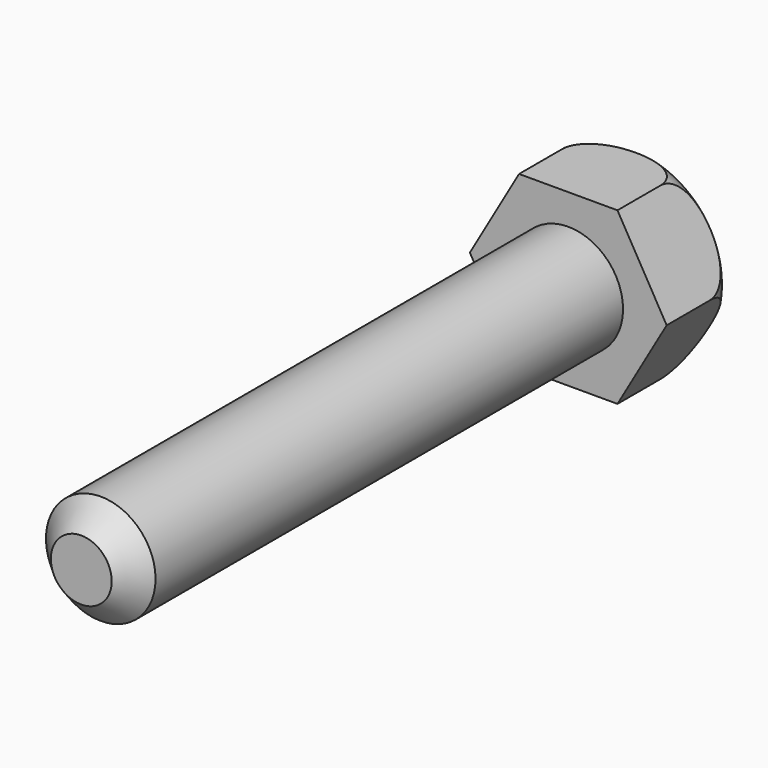
from build123d import *

# Parameters (mm, degrees)
F1_DEPTH = 4
F2_R     = 2.25
F3_DEPTH = 25
F6_SIZE  = 1


with BuildPart() as f1:
    # F0 (on Front) → F1 (new body)
    with BuildSketch(Plane.XZ):
        Polygon((2.020726, 3.5), (-2.020726, 3.5), (-4.041452, 0), (-2.020726, -3.5), (2.020726, -3.5), (4.041452, 0), align=None)
    extrude(amount=F1_DEPTH)

    # F2 (on face) → F3 (join)
    with BuildSketch(Plane.XZ.offset(4)):
        Circle(F2_R)
    extrude(amount=F3_DEPTH)

    # F4 (on Top) → F5 (revolve, cut)
    with BuildSketch(Plane.XY):
        with BuildLine():
            Line((-7.239562, -3.979997), (-4.041452, -3.979997))
            Line((-4.041452, -3.979997), (-4.041452, -1.791452))
            ThreePointArc((-4.041452, -1.791452), (-3.516748, -0.524704), (-2.25, 0))
            Line((-2.25, 0), (0, 0))
            Line((0, 0), (0, 3.398254))
            Line((0, 3.398254), (-7.627891, 4.230388))
            Line((-7.627891, 4.230388), (-7.239562, -3.979997))
        make_face()
    revolve(axis=Axis((0, 1.699127, 0), (0, 1, 0)), mode=Mode.SUBTRACT)

    # F6
    f6_edges = [f1.edges().sort_by_distance(p)[0] for p in [
        (-2.25, -29, 0),
    ]]
    chamfer(f6_edges, length=F6_SIZE)


solid = f1.part
